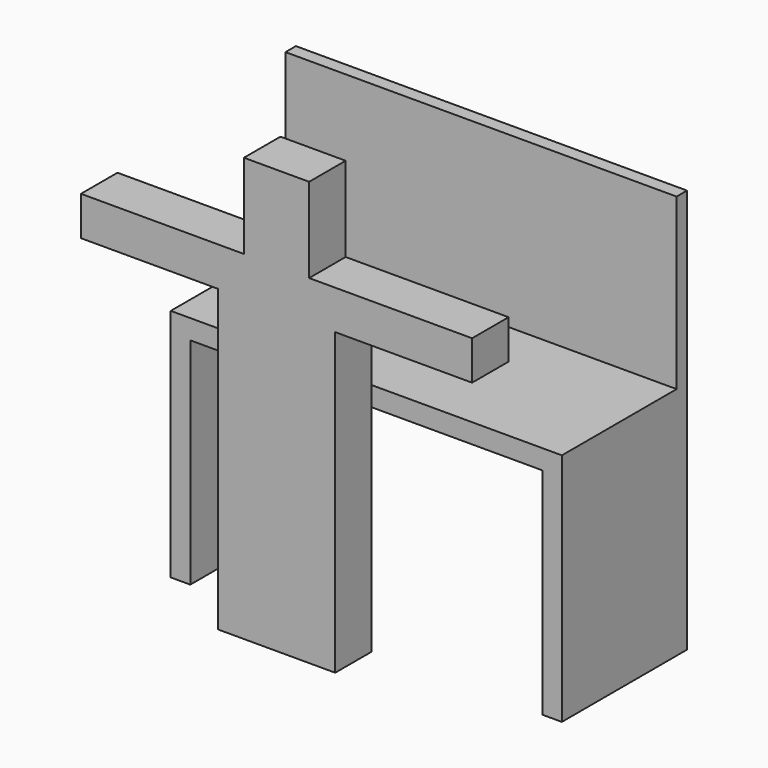
from build123d import *

# Parameters (mm, degrees)
F1_DEPTH = 609.6
F2_W     = 50.8
F2_H     = 660.4
F3_DEPTH = 1524
F5_DEPTH = 177.8


with BuildPart() as f1:
    # F0 (on Front) → F1 (new body)
    with BuildSketch(Plane.XZ):
        Polygon((0, 914.4), (0, 0), (76.2, 0), (76.2, 838.2), (1447.8, 838.2), (1447.8, 0), (1524, 0), (1524, 914.4), align=None)
    extrude(amount=-F1_DEPTH)

    # F2 (on face) → F3 (join, through all)
    with BuildSketch(Plane.YZ.offset(1524)):
        with Locations((584.2, 1244.6)):
            Rectangle(F2_W, F2_H)
    extrude(amount=-F3_DEPTH)


with BuildPart() as f5:
    # F4 (on Front) → F5 (new body)
    with BuildSketch(Plane.XZ):
        Polygon((325.897723, 1168.4), (325.897723, 0), (783.097723, 0), (783.097723, 1168.4), (1316.497723, 1168.4), (1316.497723, 1320.8), (681.497723, 1320.8), (681.497723, 1651), (427.497723, 1651), (427.497723, 1320.8), (-207.502277, 1320.8), (-207.502277, 1168.4), align=None)
    extrude(amount=F5_DEPTH)


solid = Compound([f1.part, f5.part])
